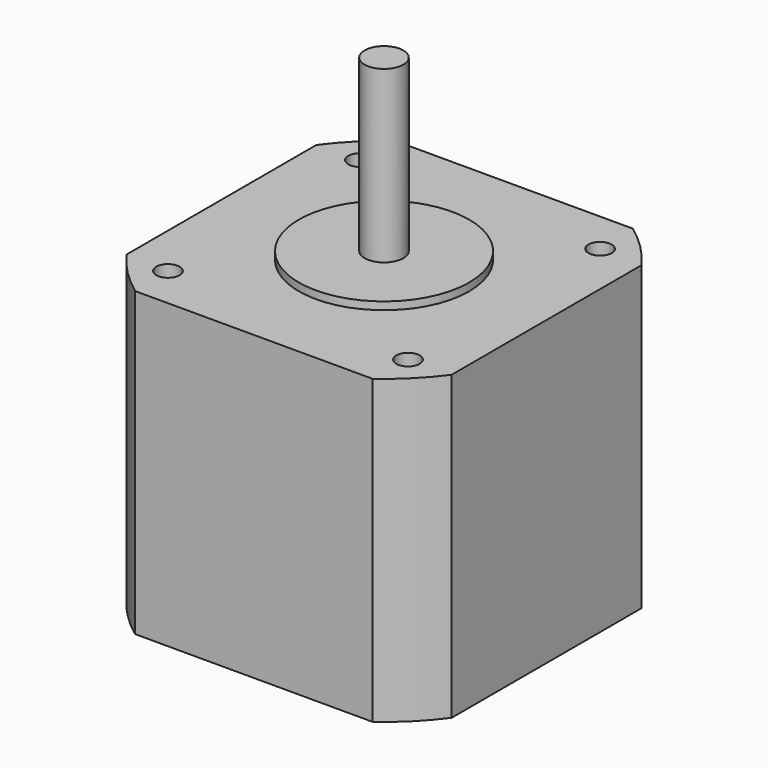
from build123d import *

# Parameters (mm, degrees)
F0_R     = 1.5
F1_DEPTH = 39
F2_R     = 2.5
F3_DEPTH = 23
F4_R     = 11
F5_DEPTH = 1


with BuildPart() as f1:
    # F0 (on Top) → F1 (new body)
    with BuildSketch(Plane.XY):
        with BuildLine():
            ThreePointArc((-66.671558, -57.270136), (-64.056334, -60.325202), (-61.001267, -62.940426))
            Line((-61.001267, -62.940426), (-30.341848, -62.940426))
            ThreePointArc((-30.341848, -62.940426), (-27.286781, -60.325202), (-24.671558, -57.270136))
            Line((-24.671558, -57.270136), (-24.671558, -26.610716))
            ThreePointArc((-24.671558, -26.610716), (-27.286781, -23.55565), (-30.341848, -20.940426))
            Line((-30.341848, -20.940426), (-61.001267, -20.940426))
            ThreePointArc((-61.001267, -20.940426), (-64.056334, -23.55565), (-66.671558, -26.610716))
            Line((-66.671558, -26.610716), (-66.671558, -57.270136))
        make_face()
        with Locations((-61.171558, -57.440426)):
            Circle(F0_R, mode=Mode.SUBTRACT)
        with Locations((-30.171558, -57.440426)):
            Circle(F0_R, mode=Mode.SUBTRACT)
        with Locations((-61.171558, -26.440426)):
            Circle(F0_R, mode=Mode.SUBTRACT)
        with Locations((-30.171558, -26.440426)):
            Circle(F0_R, mode=Mode.SUBTRACT)
    extrude(amount=F1_DEPTH)

    # F2 (on face) → F3 (join)
    with BuildSketch(Plane.XY.offset(39)):
        with Locations((-45.671558, -41.940426)):
            Circle(F2_R)
    extrude(amount=F3_DEPTH)

    # F4 (on face) → F5 (join)
    with BuildSketch(Plane.XY.offset(39)):
        with Locations((-45.671558, -41.940426)):
            Circle(F4_R)
    extrude(amount=F5_DEPTH)


solid = f1.part
